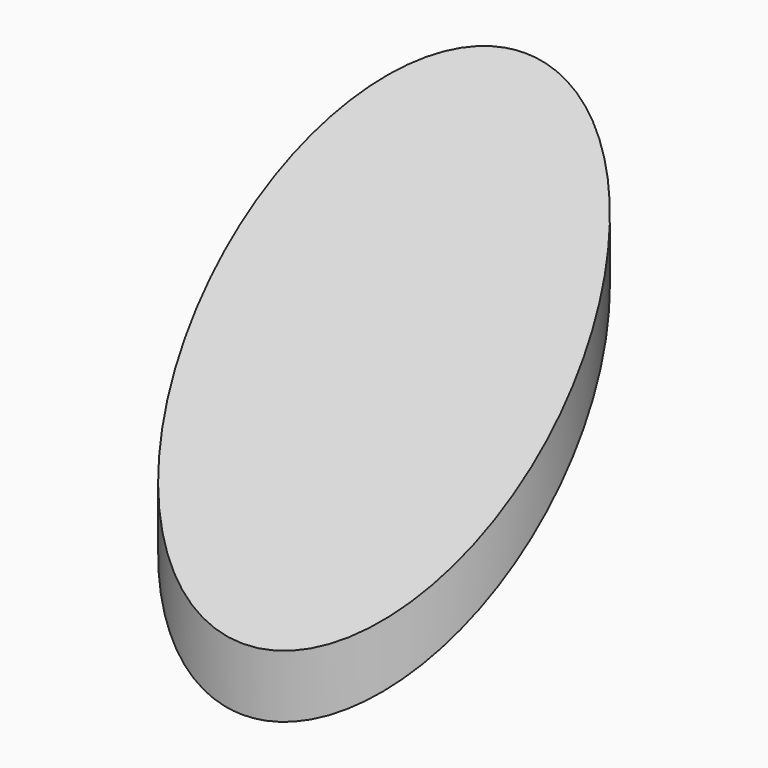
from build123d import *

# Parameters (mm, degrees)
F0_R          = 44.45
F1_DEPTH      = 114.04092
F3_DEPTH      = 44.451
F3_DEPTH_BACK = 50.8


with BuildPart() as f1:
    # F0 (on Top) → F1 (new body)
    with BuildSketch(Plane.XY):
        Circle(F0_R)
    extrude(amount=F1_DEPTH)

    # F2 (on Right) → F3 (cut, two sides)
    with BuildSketch(Plane.YZ) as f3_sk:
        Polygon((45.509020371, 97.6092198572), (-45.930979629, 0), (45.509020371, 0), align=None)
        Polygon((-45.6941351295, 115.0895298285), (-45.6941351295, 16.0295298285), (47.1049509943, 115.0895298285), align=None)
    extrude(amount=-F3_DEPTH, mode=Mode.SUBTRACT)
    extrude(f3_sk.sketch, amount=F3_DEPTH_BACK, mode=Mode.SUBTRACT)


solid = f1.part
